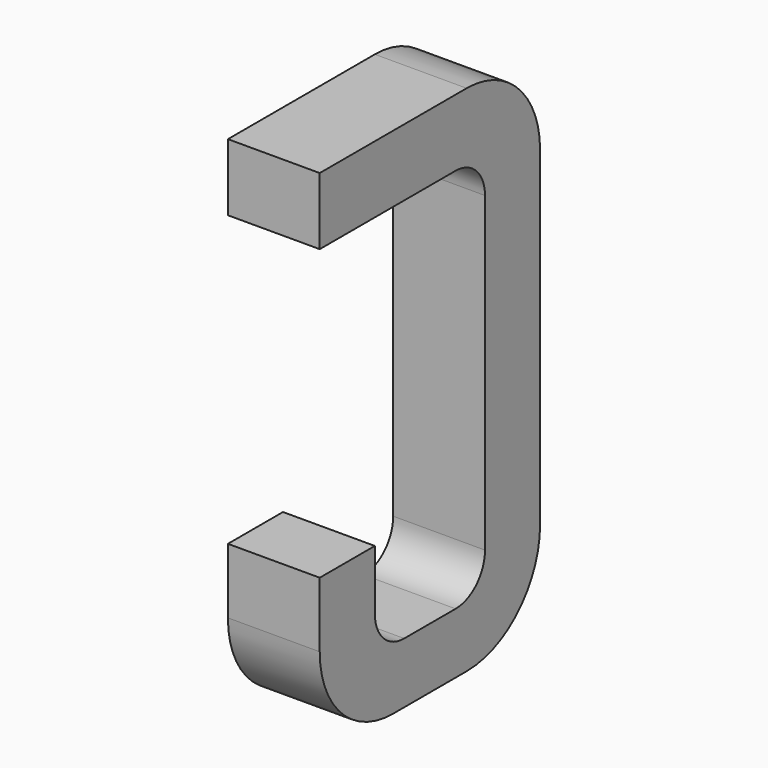
from build123d import *

# Parameters (mm, degrees)
BOX028_W     = 0.5
BOX028_H     = 1.5
BOX028_DEPTH = 2.795
FILLET097_R  = 0.5
FILLET101_R  = 0.5
FILLET093_R  = 0.5
BOX027_W     = 0.75
BOX027_H     = 2.1
BOX027_DEPTH = 1
FILLET088_R  = 0.2
FILLET110_R  = 0.2
FILLET096_R  = 0.2
FILLET087_R  = 0.2
BOX029_W     = 1
BOX029_H     = 1.575
BOX029_DEPTH = 3


with BuildPart() as part:
    # Box028 → Box028 (join)
    with BuildSketch(Plane(origin=(-0.25, 11.125, 0), x_dir=(1, 0, 0), z_dir=(0, 0, 1))):
        with Locations((0.25, 0.75)):
            Rectangle(BOX028_W, BOX028_H)
    extrude(amount=BOX028_DEPTH)

    # Fillet097
    fillet097_edges = [part.edges().sort_by_distance(p)[0] for p in [
        (0, 12.625, 0),
    ]]
    fillet(fillet097_edges, radius=FILLET097_R)

    # Fillet101
    fillet101_edges = [part.edges().sort_by_distance(p)[0] for p in [
        (0, 12.625, 2.795),
    ]]
    fillet(fillet101_edges, radius=FILLET101_R)

    # Fillet093
    fillet093_edges = [part.edges().sort_by_distance(p)[0] for p in [
        (0, 11.125, 0),
    ]]
    fillet(fillet093_edges, radius=FILLET093_R)

    # Box027 → Box027 (cut)
    with BuildSketch(Plane(origin=(-0.5, 11.5, 0.33), x_dir=(0, 1, 0), z_dir=(1, 0, 0))):
        with Locations((0.375, 1.05)):
            Rectangle(BOX027_W, BOX027_H)
    extrude(amount=BOX027_DEPTH, mode=Mode.SUBTRACT)

    # Fillet088
    fillet088_edges = [part.edges().sort_by_distance(p)[0] for p in [
        (0, 11.5, 0.33),
    ]]
    fillet(fillet088_edges, radius=FILLET088_R)

    # Fillet110
    fillet110_edges = [part.edges().sort_by_distance(p)[0] for p in [
        (0, 12.25, 0.33),
    ]]
    fillet(fillet110_edges, radius=FILLET110_R)

    # Fillet096
    fillet096_edges = [part.edges().sort_by_distance(p)[0] for p in [
        (0, 11.5, 2.43),
    ]]
    fillet(fillet096_edges, radius=FILLET096_R)

    # Fillet087
    fillet087_edges = [part.edges().sort_by_distance(p)[0] for p in [
        (0, 12.25, 2.43),
    ]]
    fillet(fillet087_edges, radius=FILLET087_R)

    # Box029 → Box029 (cut)
    with BuildSketch(Plane(origin=(-1, 11, 0.855), x_dir=(0, 1, 0), z_dir=(1, 0, 0))):
        with Locations((0.5, 0.7875)):
            Rectangle(BOX029_W, BOX029_H)
    extrude(amount=BOX029_DEPTH, mode=Mode.SUBTRACT)


with BuildPart() as part_1:
    # Body014 placement: moved
    add(part.part.moved(Location((-8.89, 0, 0))))


solid = part_1.part
